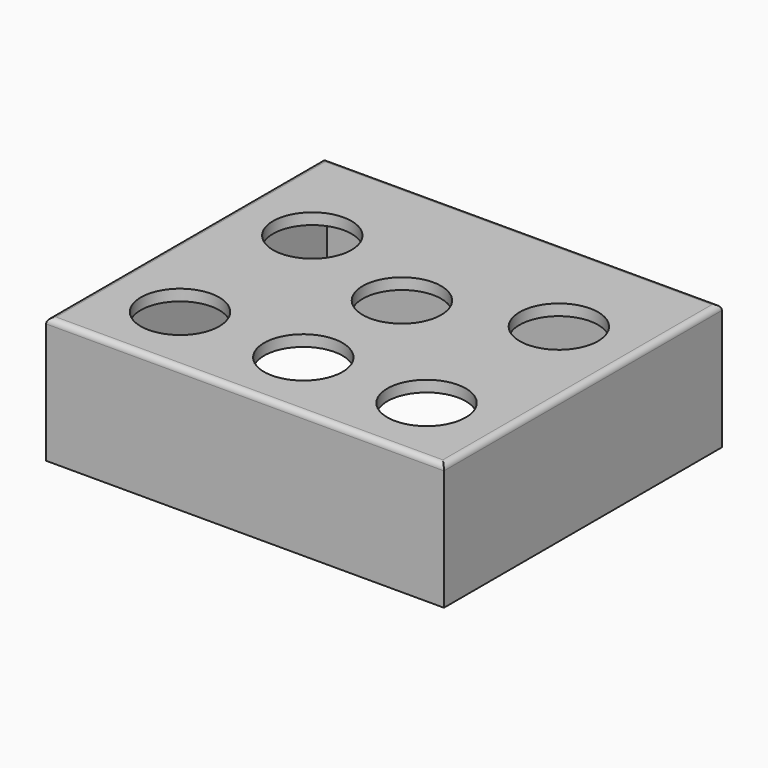
from build123d import *

# Parameters (mm, degrees)
SKETCH_W        = 142
SKETCH_H        = 124
SKETCH_R        = 14
PAD_DEPTH       = 45
SKETCH001_W     = 131
SKETCH001_H     = 113
POCKET_DEPTH    = 41
SKETCH002_R     = 1.75
POCKET001_DEPTH = 6
SKETCH003_W     = 8
SKETCH003_H     = 7
POCKET002_DEPTH = 10
FILLET_R        = 2


with BuildPart() as part:
    # Sketch → Pad (new body)
    with BuildSketch(Plane.XY):
        Rectangle(SKETCH_W, SKETCH_H)
        with Locations((0, 8)):
            Circle(SKETCH_R, mode=Mode.SUBTRACT)
        with Locations((0, -36)):
            Circle(SKETCH_R, mode=Mode.SUBTRACT)
        with Locations((44, -36)):
            Circle(SKETCH_R, mode=Mode.SUBTRACT)
        with Locations((-44, -36)):
            Circle(SKETCH_R, mode=Mode.SUBTRACT)
        with Locations((-44, 23)):
            Circle(SKETCH_R, mode=Mode.SUBTRACT)
        with Locations((44, 23)):
            Circle(SKETCH_R, mode=Mode.SUBTRACT)
    extrude(amount=PAD_DEPTH)

    # Sketch001 (on Face11 of Pad) → Pocket (cut)
    with BuildSketch(Plane(origin=(0, 0, 0), x_dir=(1, 0, 0), z_dir=(0, 0, -1))):
        Rectangle(SKETCH001_W, SKETCH001_H)
    extrude(amount=-POCKET_DEPTH, mode=Mode.SUBTRACT)

    # Sketch002 (on Face4 of Pocket) → Pocket001 (cut)
    with BuildSketch(Plane(origin=(0, 0, 0), x_dir=(1, 0, 0), z_dir=(0, 0, -1))):
        with Locations((-68, 59)):
            Circle(SKETCH002_R)
        with Locations((-68, -59)):
            Circle(SKETCH002_R)
        with Locations((68, -59)):
            Circle(SKETCH002_R)
        with Locations((68, 59)):
            Circle(SKETCH002_R)
    extrude(amount=-POCKET001_DEPTH, mode=Mode.SUBTRACT)

    # Sketch003 (on Face2 of Pocket001) → Pocket002 (cut)
    with BuildSketch(Plane(origin=(0, 62, 0), x_dir=(-1, 0, 0), z_dir=(0, 1, 0))):
        with Locations((-57, 3.5)):
            Rectangle(SKETCH003_W, SKETCH003_H)
    extrude(amount=-POCKET002_DEPTH, mode=Mode.SUBTRACT)

    # Fillet
    fillet_edges = [part.edges().sort_by_distance(p)[0] for p in [
        (-71, 0, 45),
        (0, 62, 45),
        (71, 0, 45),
        (0, -62, 45),
    ]]
    fillet(fillet_edges, radius=FILLET_R)


solid = part.part
